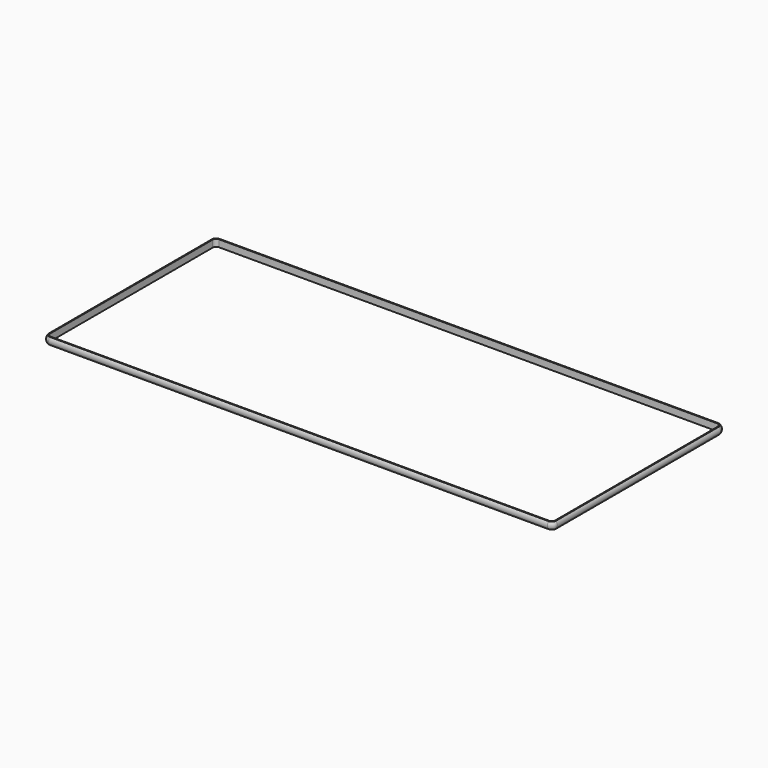
from build123d import *

# Parameters (mm, degrees)
F1_DEPTH = 25.4
F2_W     = 1804.67
F2_H     = 25.4
F3_DEPTH = 6.35
F5_DEPTH = 2540


with BuildPart() as f1:
    # F0 (on Top) → F1 (new body)
    with BuildSketch(Plane.XY):
        with BuildLine():
            ThreePointArc((917.575, 368.935), (913.1113073453, 379.7113073453), (902.335, 384.175))
            Line((902.335, 384.175), (-902.335, 384.175))
            ThreePointArc((-902.335, 384.175), (-913.1113073453, 379.7113073453), (-917.575, 368.935))
            Line((-917.575, 368.935), (-917.575, -368.935))
            ThreePointArc((-917.575, -368.935), (-913.1113073453, -379.7113073453), (-902.335, -384.175))
            Line((-902.335, -384.175), (902.335, -384.175))
            ThreePointArc((902.335, -384.175), (913.1113073453, -379.7113073453), (917.575, -368.935))
            Line((917.575, -368.935), (917.575, 368.935))
        make_face()
        with BuildLine():
            ThreePointArc((914.4, -368.3), (910.6802561211, -377.2802561211), (901.7, -381))
            Line((901.7, -381), (-901.7, -381))
            ThreePointArc((-901.7, -381), (-910.6802561211, -377.2802561211), (-914.4, -368.3))
            Line((-914.4, -368.3), (-914.4, 368.3))
            ThreePointArc((-914.4, 368.3), (-910.6802561211, 377.2802561211), (-901.7, 381))
            Line((-901.7, 381), (901.7, 381))
            ThreePointArc((901.7, 381), (910.6802561211, 377.2802561211), (914.4, 368.3))
            Line((914.4, 368.3), (914.4, -368.3))
        make_face(mode=Mode.SUBTRACT)
    extrude(amount=F1_DEPTH)

    # F2 (on face) → F3 (join)
    with BuildSketch(Plane.XZ.offset(384.175)):
        with Locations((0, 12.7)):
            Rectangle(F2_W, F2_H)
    extrude(amount=F3_DEPTH)

    # F4 (on face) → F5 (cut)
    with BuildSketch(Plane(origin=(-902.335, 0, 0), x_dir=(0, -1, 0), z_dir=(-1, 0, 0))):
        with BuildLine():
            ThreePointArc((384.175, 25.4), (388.7056210694, 12.7), (384.175, 0))
            Line((384.175, 0), (390.525, 0))
            Line((390.525, 0), (390.525, 25.4))
            Line((390.525, 25.4), (384.175, 25.4))
        make_face()
    extrude(amount=-F5_DEPTH, mode=Mode.SUBTRACT)

    # F6: sweep along a path in F6_path
    with BuildLine(Plane(origin=(-902.335, -384.175, 25.4), x_dir=(0, 1, 0), z_dir=(0, 0, 1))) as f6_path:
        ThreePointArc((0, 0), (4.4636926547, 10.7763073453), (15.24, 15.24))
        Line((15.24, 15.24), (753.11, 15.24))
        ThreePointArc((753.11, 15.24), (763.8863073453, 10.7763073453), (768.35, 0))
        Line((768.35, 0), (768.35, -1804.67))
        ThreePointArc((768.35, -1804.67), (763.8863073453, -1815.4463073453), (753.11, -1819.91))
        Line((753.11, -1819.91), (15.24, -1819.91))
        ThreePointArc((15.24, -1819.91), (4.4636926547, -1815.4463073453), (0, -1804.67))
        Line((0, -1804.67), (0, 0))
    # F3_face (on face) → F6 (sweep)
    with BuildSketch(Plane(origin=(-902.335, -387.35, 12.7), x_dir=(0, -1, 0), z_dir=(-1, 0, 0))):
        with BuildLine():
            Line((-3.175, 12.7), (-3.175, -12.7))
            ThreePointArc((-3.175, -12.7), (1.3556210694, 0), (-3.175, 12.7))
        make_face()
    sweep(path=f6_path.line)


solid = f1.part
